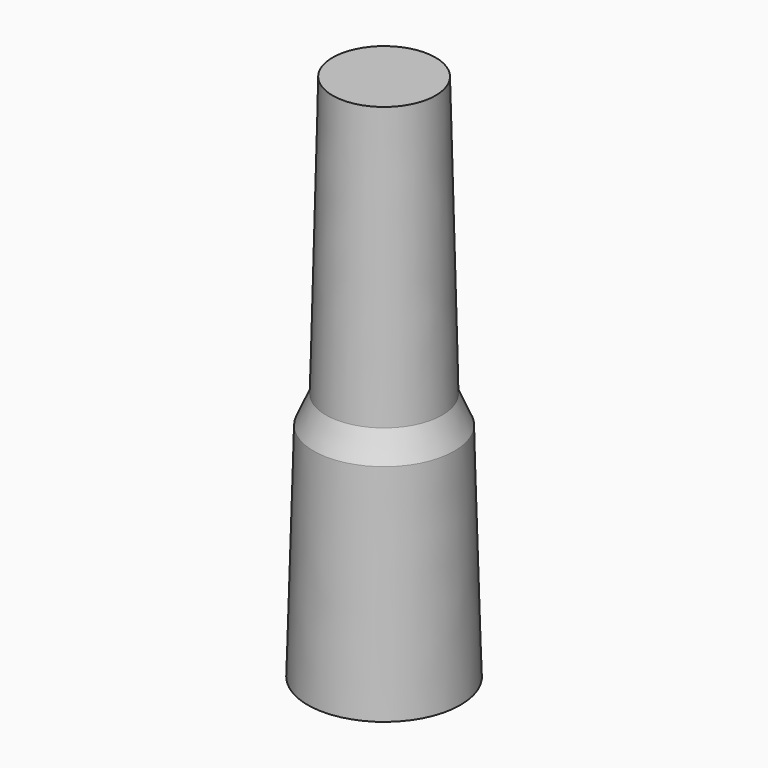
from build123d import *

# Parameters (mm, degrees)
F0_R      = 17.526
F2_R      = 16.129
F3_FACE_R = 16.129
F5_R      = 13.335
F6_FACE_R = 13.335
F8_R      = 11.811
F10_R     = 14.478
F11_DEPTH = 50.8


with BuildPart() as f3:
    # F0 (on Top) → F3 section 0
    with BuildSketch(Plane.XY):
        Circle(F0_R)
    # F2 (on offset) → F3 section 1
    with BuildSketch(Plane.XY.offset(50.8)):
        Circle(F2_R)
    loft()

    # F3_face (on face) → F6 section 0
    with BuildSketch(Plane.XY.offset(50.8)):
        Circle(F3_FACE_R)
    # F5 (on offset) → F6 section 1
    with BuildSketch(Plane.XY.offset(57.15)):
        Circle(F5_R)
    loft()

    # F6_face (on face) → F9 section 0
    with BuildSketch(Plane.XY.offset(57.15)):
        Circle(F6_FACE_R)
    # F8 (on offset) → F9 section 1
    with BuildSketch(Plane.XY.offset(121.158)):
        Circle(F8_R)
    loft()

    # F10 (on face) → F11 (cut)
    with BuildSketch(Plane(origin=(0, 0, 0), x_dir=(1, 0, 0), z_dir=(0, 0, -1))):
        Circle(F10_R)
    extrude(amount=-F11_DEPTH, mode=Mode.SUBTRACT)


solid = f3.part
